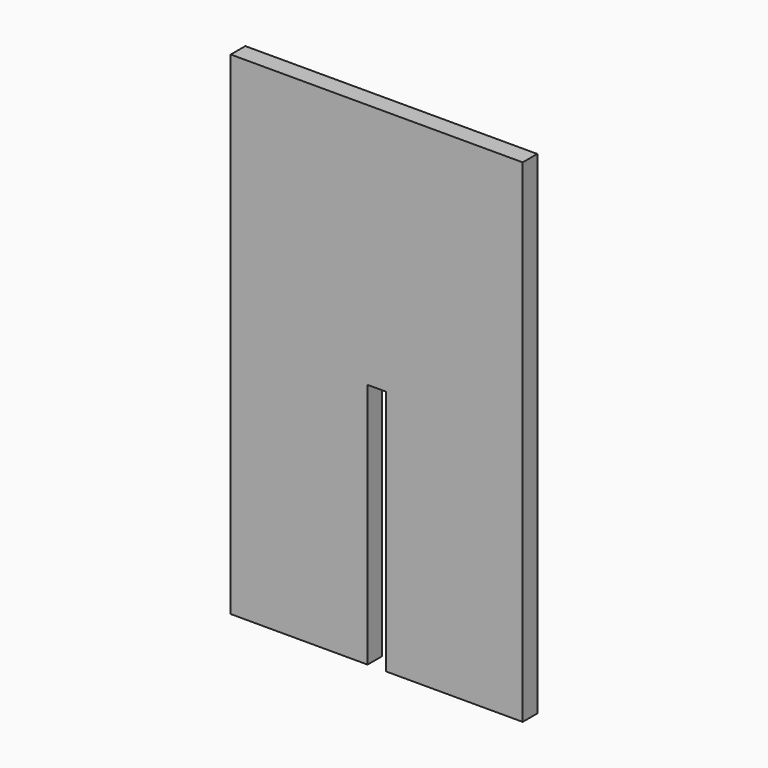
from build123d import *

# Parameters (mm, degrees)
F0_W     = 50.8
F0_H     = 85.725
F1_DEPTH = 3.175
F2_W     = 3.175
F2_H     = 42.8625
F3_DEPTH = 3.175


with BuildPart() as f1:
    # F0 (on Front) → F1 (new body)
    with BuildSketch(Plane.XZ):
        with Locations((0, 42.8625)):
            Rectangle(F0_W, F0_H)
    extrude(amount=F1_DEPTH)

    # F2 (on face) → F3 (cut)
    with BuildSketch(Plane.XZ.offset(3.175)):
        with Locations((0, 21.43125)):
            Rectangle(F2_W, F2_H)
    extrude(amount=-F3_DEPTH, mode=Mode.SUBTRACT)


with BuildPart() as f4_1:
    # F4: copy of F1
    add(f1.part)


solid = f1.part
